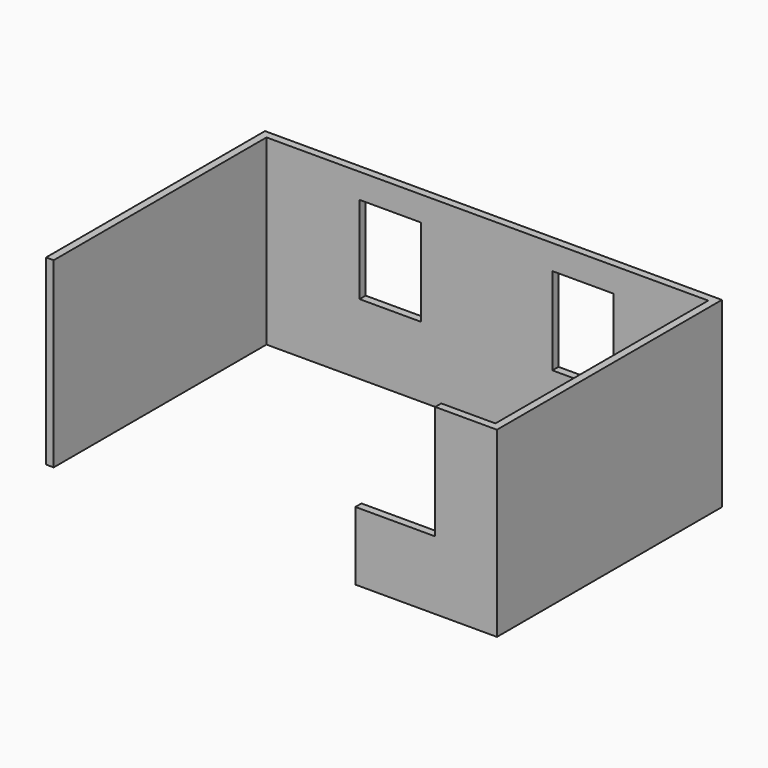
from build123d import *

# Parameters (mm, degrees)
F0_W     = 723.9
F0_H     = 101.6
F0_W_2   = 101.6
F0_H_2   = 3556
F0_W_3   = 5905.5
F1_DEPTH = 2438.4
F2_W     = 1066.8
F2_H     = 101.6
F3_DEPTH = 914.4
F4_W     = 819.15
F4_H     = 1168.4
F5_DEPTH = 101.6


with BuildPart() as f1:
    # F0 (on Top) → F1 (new body)
    with BuildSketch(Plane.XY):
        with Locations((-361.95, -3606.8)):
            Rectangle(F0_W, F0_H)
        with Locations((50.8, -3606.8)):
            Rectangle(F0_W_2, F0_H)
        with Locations((50.8, -1778)):
            Rectangle(F0_W_2, F0_H_2)
        with Locations((50.8, 50.8)):
            Rectangle(F0_W_2, F0_H)
        with Locations((-2952.75, 50.8)):
            Rectangle(F0_W_3, F0_H)
        Polygon((-5905.5, -3556), (-5905.5, 0), (-5905.5, 101.6), (-6007.1, 101.6), (-6007.1, -3556), align=None)
    extrude(amount=F1_DEPTH)

    # F2 (on Top) → F3 (join)
    with BuildSketch(Plane.XY):
        with Locations((-1257.3, -3606.8)):
            Rectangle(F2_W, F2_H)
    extrude(amount=F3_DEPTH)

    # F4 (on face) → F5 (cut, through all)
    with BuildSketch(Plane.XZ):
        with Locations((-1673.225, 1524)):
            Rectangle(F4_W, F4_H)
        with Locations((-4251.325, 1524)):
            Rectangle(F4_W, F4_H)
    extrude(amount=-F5_DEPTH, mode=Mode.SUBTRACT)


solid = f1.part
